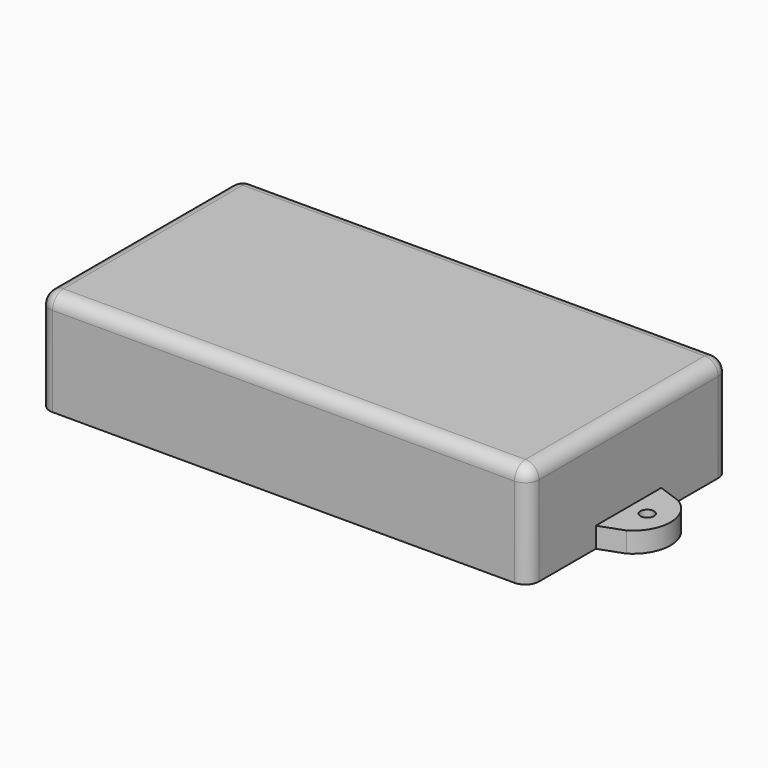
from build123d import *

# Parameters (mm, degrees)
F1_DEPTH = 15.18412
F0_R     = 1
F2_DEPTH = 3
F3_R     = 2


with BuildPart() as f1:
    # F0 (on Top) → F1 (new body)
    with BuildSketch(Plane.XY):
        Polygon((0, 12.4455), (0, 0), (71.9836, 0), (71.9836, 12.4455), (71.9836, 24.511), (71.9836, 36.957), (0, 36.957), (0, 24.511), align=None)
    extrude(amount=F1_DEPTH)

    # F0 (on Top) → F2 (join)
    with BuildSketch(Plane.XY):
        with BuildLine():
            Line((71.9836, 24.511), (71.9836, 12.4455))
            Line((71.9836, 12.4455), (75.4836, 13.719396))
            ThreePointArc((75.4836, 13.719396), (78.1688, 18.47825), (75.4836, 23.237104))
            Line((75.4836, 23.237104), (71.9836, 24.511))
        make_face()
        with Locations((74.7268, 18.4785)):
            Circle(F0_R, mode=Mode.SUBTRACT)
        with BuildLine():
            Line((-3.5, 13.719396), (0, 12.4455))
            Line((0, 12.4455), (0, 24.511))
            Line((0, 24.511), (-3.5, 23.237104))
            ThreePointArc((-3.5, 23.237104), (-6.1852, 18.47825), (-3.5, 13.719396))
        make_face()
        with Locations((-2.7432, 18.4785)):
            Circle(F0_R, mode=Mode.SUBTRACT)
    extrude(amount=F2_DEPTH)

    # F3
    f3_edges = [f1.edges().sort_by_distance(p)[0] for p in [
        (0, 18.4785, 15.18412),
        (35.9918, 0, 15.18412),
        (71.9836, 18.4785, 15.18412),
        (35.9918, 36.957, 15.18412),
        (0, 36.957, 7.59206),
        (71.9836, 36.957, 7.59206),
        (71.9836, 0, 7.59206),
        (0, 0, 7.59206),
    ]]
    fillet(f3_edges, radius=F3_R)


solid = f1.part
